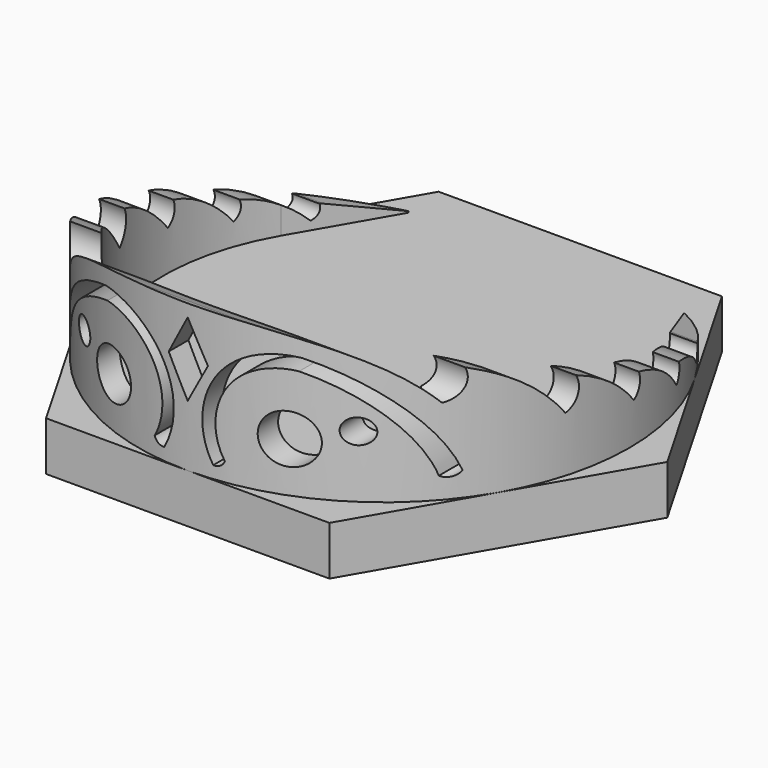
from build123d import *

# Parameters (mm, degrees)
F1_DEPTH = 7.62
F3_DEPTH = 25.4
F4_R     = 1.27
F4_R_2   = 0.635
F5_DEPTH = 25.4
F7_DEPTH = 254
F9_DEPTH = 2.54


with BuildPart() as f1:
    # F0 (on Top) → F1 (new body)
    with BuildSketch(Plane.XY):
        with BuildLine():
            ThreePointArc((9.89867, 5.715), (0, -11.43), (-9.89867, 5.715))
            Line((-9.89867, 5.715), (-7.13077, 10.509145))
            ThreePointArc((-7.13077, 10.509145), (0, -12.7), (7.13077, 10.509145))
            Line((7.13077, 10.509145), (9.89867, 5.715))
        make_face()
    extrude(amount=F1_DEPTH)

    # F2 (on Right) → F3 (cut, symmetric)
    with BuildSketch(Plane.YZ):
        Polygon((-12.7, 7.624504), (10.667997, 0.016777), (10.667997, 7.636778), align=None)
    extrude(amount=F3_DEPTH, both=True, mode=Mode.SUBTRACT)

    # F4 (on Front) → F5 (cut)
    with BuildSketch(Plane.XZ):
        with BuildLine():
            ThreePointArc((-1.816283, 0.958728), (-1.600882, 0.699429), (-1.27, 0.635))
            ThreePointArc((-1.27, 0.635), (-1.377587, 4.690775), (-5.08, 6.35))
            ThreePointArc((-5.08, 6.35), (-8.323163, 4.513163), (-10.16, 1.27))
            ThreePointArc((-10.16, 1.27), (-9.893223, 1.028216), (-9.544002, 1.11582))
            ThreePointArc((-9.544002, 1.11582), (-7.8862, 4.052067), (-4.958905, 5.725627))
            ThreePointArc((-4.958905, 5.725627), (-1.896911, 4.324924), (-1.816283, 0.958728))
        make_face()
        with Locations((-4.547699, 2.577368)):
            Circle(F4_R)
        with Locations((-7.087699, 3.212368)):
            Circle(F4_R_2)
        Polygon((-1.016, 5.08), (0, 3.175), (1.016, 5.08), (0, 6.985), align=None)
        with BuildLine():
            ThreePointArc((5.08, 6.35), (1.377587, 4.690775), (1.27, 0.635))
            ThreePointArc((1.27, 0.635), (1.600882, 0.699429), (1.816283, 0.958728))
            ThreePointArc((1.816283, 0.958728), (1.896911, 4.324924), (4.958905, 5.725627))
            ThreePointArc((4.958905, 5.725627), (7.8862, 4.052067), (9.544002, 1.11582))
            ThreePointArc((9.544002, 1.11582), (9.893223, 1.028216), (10.16, 1.27))
            ThreePointArc((10.16, 1.27), (8.323163, 4.513163), (5.08, 6.35))
        make_face()
        with Locations((7.087699, 3.212368)):
            Circle(F4_R_2)
        with Locations((4.547699, 2.577368)):
            Circle(F4_R)
    extrude(amount=F5_DEPTH, mode=Mode.SUBTRACT)

    # F6 (on Right) → F7 (cut, symmetric)
    with BuildSketch(Plane.YZ):
        with BuildLine():
            ThreePointArc((-12.718, 7.654759), (-10.277436, 6.343318), (-8.278966, 4.424373))
            ThreePointArc((-8.278966, 4.424373), (-7.554849, 5.004418), (-7.532955, 5.931951))
            ThreePointArc((-7.532955, 5.931951), (-5.291162, 4.704289), (-3.519372, 2.86213))
            ThreePointArc((-3.519372, 2.86213), (-2.905221, 3.526128), (-3.011192, 4.424373))
            ThreePointArc((-3.011192, 4.424373), (-1.190339, 3.475116), (0.292418, 2.054543))
            ThreePointArc((0.292418, 2.054543), (0.68303, 2.572404), (0.626598, 3.218603))
            ThreePointArc((0.626598, 3.218603), (2.377442, 2.459428), (3.758678, 1.142617))
            ThreePointArc((3.758678, 1.142617), (4.061202, 1.566975), (4.013516, 2.085942))
            ThreePointArc((4.013516, 2.085942), (5.551588, 1.492887), (6.819732, 0.439706))
            ThreePointArc((6.819732, 0.439706), (7.129454, 0.723438), (7.156306, 1.142617))
            Line((7.156306, 1.142617), (5.093893, 1.818401))
            Line((5.093893, 1.818401), (4.182881, 2.116909))
            Line((4.182881, 2.116909), (-12.718, 7.654759))
        make_face()
        Polygon((-12.35497, 8.762686), (-12.718, 7.654759), (4.182881, 2.116909), (5.093893, 1.818401), (7.156306, 1.142617), (12.274562, 0), align=None)
    extrude(amount=F7_DEPTH, both=True, mode=Mode.SUBTRACT)

    # F8 (on face) → F9 (join)
    with BuildSketch(Plane(origin=(0, 0, 0), x_dir=(1, 0, 0), z_dir=(0, 0, -1))):
        Polygon((14.664697, 0), (7.332348, 12.7), (-7.332348, 12.7), (-14.664697, 0), (-7.332348, -12.7), (7.332348, -12.7), align=None)
    extrude(amount=F9_DEPTH)


solid = f1.part
